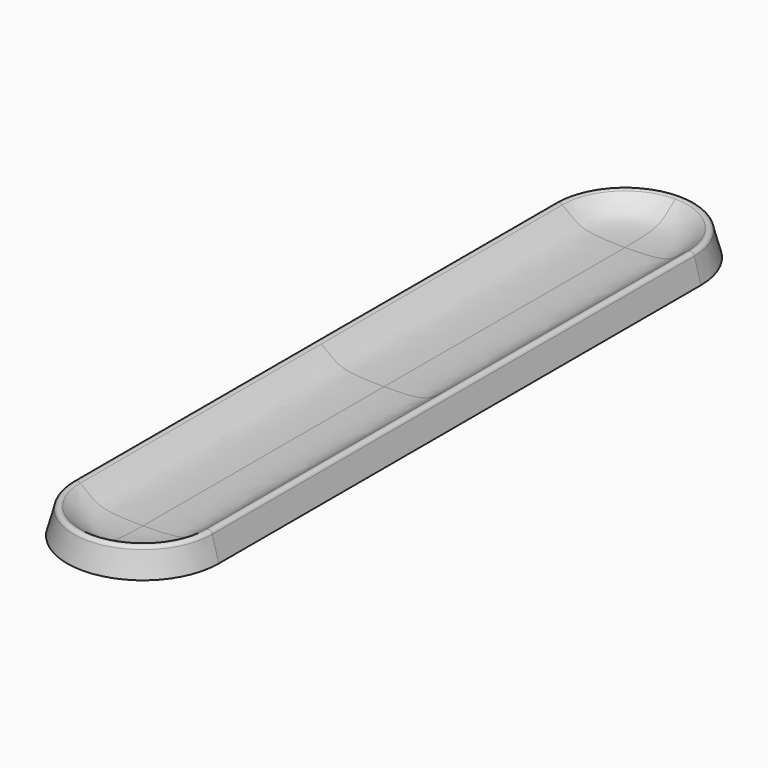
from build123d import *

# Parameters (mm, degrees)
F1_DEPTH = 87.5
F2_ANGLE = 90
F3_ANGLE = 90


with BuildPart() as f1:
    # F0 (on Front) → F1 (new body, symmetric)
    with BuildSketch(Plane.XZ):
        with BuildLine():
            Line((0, 2.5), (0, 0))
            Line((0, 0), (22, 0))
            Line((22, 0), (20.1534738197, 6.8913295224))
            ThreePointArc((20.1534738197, 6.8913295224), (19.3552097876, 7.7252070092), (18.2230176965, 7.5))
            add(Edge.make_bspline(
                [(18.2230176965, 7.5), (17.023651447, 6.4936122224), (13.3588867002, 3.7011383374), (10.2797684791, 2.5), (0, 2.5)],
                knots=[0, 0, 0, 0, 0.3622889094, 1, 1, 1, 1], degree=3))
        make_face()
    extrude(amount=F1_DEPTH, both=True)

    # F1_face (on face) → F2 (revolve)
    with BuildSketch(Plane(origin=(13.027739463, -87.5, 2.3773299325), x_dir=(1, 0, 0), z_dir=(0, -1, 0))):
        with BuildLine():
            ThreePointArc((7.1257343567, 4.5139995899), (6.3274703245, 5.3478770767), (5.1952782335, 5.1226700675))
            add(Edge.make_bspline(
                [(5.1952782335, 5.1226700675), (3.995911984, 4.1162822899), (0.3311472372, 1.3238084049), (-2.7479709839, 0.1226700675), (-13.027739463, 0.1226700675)],
                knots=[0, 0, 0, 0, 0.3622889094, 1, 1, 1, 1], degree=3))
            Line((-13.027739463, 0.1226700675), (-13.027739463, -2.3773299325))
            Line((-13.027739463, -2.3773299325), (8.972260537, -2.3773299325))
            Line((8.972260537, -2.3773299325), (7.1257343567, 4.5139995899))
        make_face()
    revolve(axis=Axis((0, -87.5, 1.25), (0, 0, -1)), revolution_arc=F2_ANGLE)

    # F1_face1 (on face) → F3 (revolve)
    with BuildSketch(Plane(origin=(13.027739463, 87.5, 2.3773299325), x_dir=(1, 0, 0), z_dir=(0, 1, 0))):
        with BuildLine():
            ThreePointArc((5.1952782335, -5.1226700675), (6.3274703245, -5.3478770767), (7.1257343567, -4.5139995899))
            Line((7.1257343567, -4.5139995899), (8.972260537, 2.3773299325))
            Line((8.972260537, 2.3773299325), (-13.027739463, 2.3773299325))
            Line((-13.027739463, 2.3773299325), (-13.027739463, -0.1226700675))
            add(Edge.make_bspline(
                [(5.1952782335, -5.1226700675), (3.995911984, -4.1162822899), (0.3311472372, -1.3238084049), (-2.7479709839, -0.1226700675), (-13.027739463, -0.1226700675)],
                knots=[0, 0, 0, 0, 0.3622889094, 1, 1, 1, 1], degree=3))
        make_face()
    revolve(axis=Axis((0, 87.5, 1.25), (0, 0, 1)), revolution_arc=F3_ANGLE)

    # F4: F1 across face


with BuildPart() as f1_1:
    add(f1.part)
    add(f1.part.mirror(Plane(origin=(0, 0, 1.5692843918), x_dir=(0, -1, 0), z_dir=(-1, 0, 0))))


solid = f1_1.part
